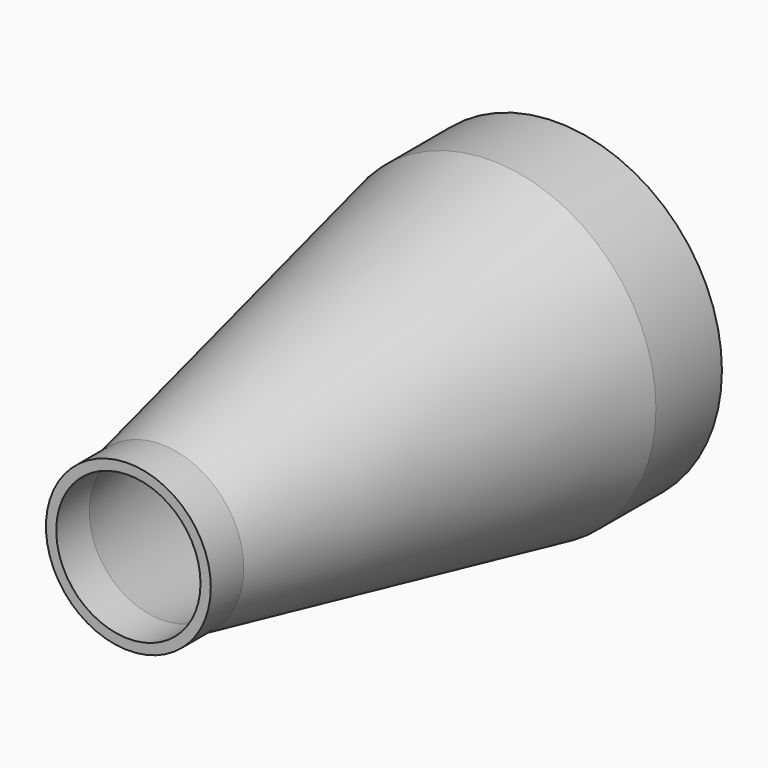
from build123d import *

# Parameters (mm, degrees)
F2_R      = 2
F2_R_2    = 1.75
F3_DEPTH  = 2
F1_R      = 4
F1_R_2    = 3.4
F4_DEPTH  = 2
F7_DEPTH  = 1.9
F8_DEPTH  = 1.9
F9_DEPTH  = 0.9
F10_DEPTH = 1.9


with BuildPart() as f3:
    # F2 (on offset) → F3 (new body)
    with BuildSketch(Plane.XZ.offset(10)):
        Circle(F2_R)
        Circle(F2_R_2, mode=Mode.SUBTRACT)
    extrude(amount=F3_DEPTH)



with BuildPart() as f4:
    # F1 (on Front) → F4 (new body)
    with BuildSketch(Plane.XZ):
        Circle(F1_R)
        Circle(F1_R_2, mode=Mode.SUBTRACT)
    extrude(amount=-F4_DEPTH)


with BuildPart() as f3_1:
    add(f3.part)

    add(f4.part)  # F6 merges F4
    # F5 (on Right) → F6 (revolve)
    with BuildSketch(Plane.YZ):
        Polygon((-10, -2), (0, -4), (0, -3.4), (-10, -1.75), align=None)
    revolve(axis=Axis((0, -5, 0), (0, -1, 0)))

    # F7 (cut): a face of the model
    f7_faces = [f3_1.faces().sort_by_distance(p)[0] for p in [
        (-1.9434314575, -12, 0),
    ]]
    extrude(f7_faces, amount=-F7_DEPTH, mode=Mode.SUBTRACT)

    # F8 (cut): a face of the model
    f8_faces = [f3_1.faces().sort_by_distance(p)[0] for p in [
        (-3.886862915, 2, 0),
    ]]
    extrude(f8_faces, amount=-F8_DEPTH, mode=Mode.SUBTRACT)

    # F9 (add): a face of the model
    f9_faces = [f3_1.faces().sort_by_distance(p)[0] for p in [
        (-1.9434314575, -10.1, 0),
    ]]
    extrude(f9_faces, amount=F9_DEPTH)

    # F10 (add): a face of the model
    f10_faces = [f3_1.faces().sort_by_distance(p)[0] for p in [
        (-3.886862915, 0.1, 0),
    ]]
    extrude(f10_faces, amount=F10_DEPTH)


solid = f3_1.part
